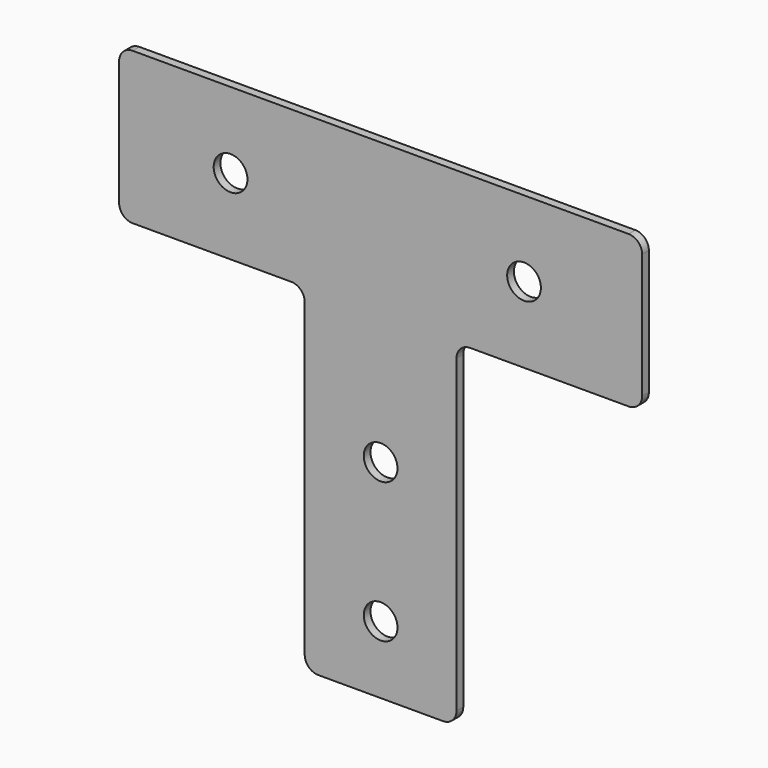
from build123d import *

# Parameters (mm, degrees)
F1_DEPTH = 2.5
F2_R     = 5
F3_DEPTH = 2.501


with BuildPart() as f1:
    # F0 (on Front) → F1 (new body)
    with BuildSketch(Plane.XZ):
        with BuildLine():
            ThreePointArc((77.5, 18.5), (76.328427, 21.328427), (73.5, 22.5))
            Line((73.5, 22.5), (-73.5, 22.5))
            ThreePointArc((-73.5, 22.5), (-76.328427, 21.328427), (-77.5, 18.5))
            Line((-77.5, 18.5), (-77.5, -18.5))
            ThreePointArc((-77.5, -18.5), (-76.328427, -21.328427), (-73.5, -22.5))
            Line((-73.5, -22.5), (-26.5, -22.5))
            ThreePointArc((-26.5, -22.5), (-23.671573, -23.671573), (-22.5, -26.5))
            Line((-22.5, -26.5), (-22.5, -118.5))
            ThreePointArc((-22.5, -118.5), (-21.328427, -121.328427), (-18.5, -122.5))
            Line((-18.5, -122.5), (18.5, -122.5))
            ThreePointArc((18.5, -122.5), (21.328427, -121.328427), (22.5, -118.5))
            Line((22.5, -118.5), (22.5, -26.5))
            ThreePointArc((22.5, -26.5), (23.671573, -23.671573), (26.5, -22.5))
            Line((26.5, -22.5), (73.5, -22.5))
            ThreePointArc((73.5, -22.5), (76.328427, -21.328427), (77.5, -18.5))
            Line((77.5, -18.5), (77.5, 18.5))
        make_face()
    extrude(amount=F1_DEPTH)

    # F2 (on Front) → F3 (cut, through all)
    with BuildSketch(Plane.XZ):
        with Locations((-44.47782, 0)):
            Circle(F2_R)
        with Locations((42.501032, 0)):
            Circle(F2_R)
        with Locations((0, -60.951091)):
            Circle(F2_R)
        with Locations((0, -102.463715)):
            Circle(F2_R)
    extrude(amount=F3_DEPTH, mode=Mode.SUBTRACT)


solid = f1.part
